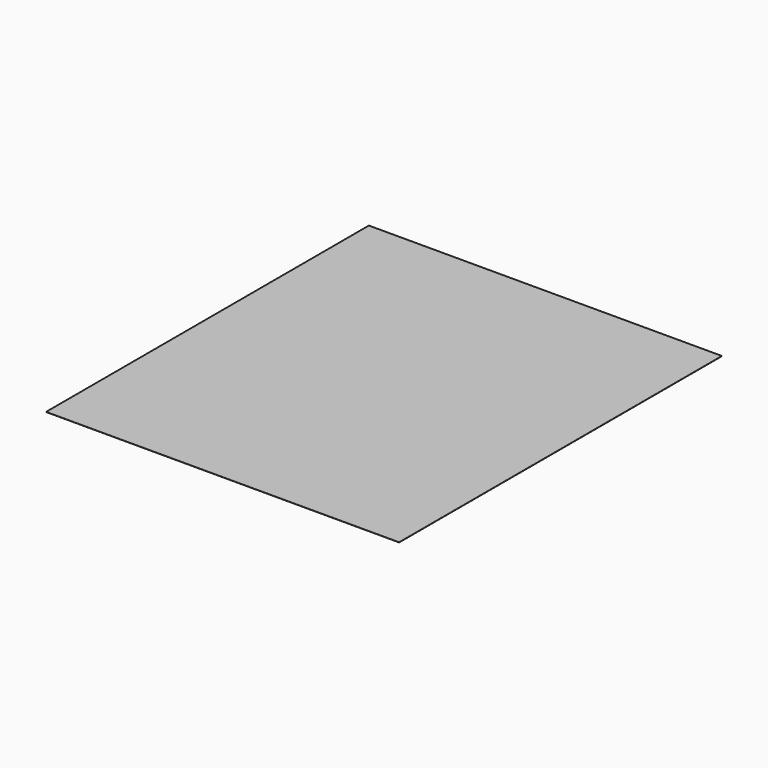
from build123d import *

# Parameters (mm, degrees)
F0_W     = 1100
F0_H     = 800
F1_DEPTH = 1


with BuildPart() as f1:
    # F0 (on Top) → F1 (new body)
    with BuildSketch(Plane.XY):
        Polygon((-750, -1134.7698926926), (-750, -1200), (1350, -1200), (1350, 1200), (-750, 1200), (-750, 1057.4456095695), (-750, 907.4456095695), (-750, 759.5543324947), (-750, 609.5543324947), (-750, 466.9999420643), (-750, 316.9999420643), (-750, 188.3945055429), (-750, 38.3945055429), (-750, -104.1598848875), (-750, -254.1598848875), (-750, -402.0511619623), (-750, -552.0511619623), (-750, -694.6055523928), (-750, -844.6055523928), (-750, -992.2155022621), align=None)
        Rectangle(F0_W, F0_H, mode=Mode.SUBTRACT)
        Rectangle(F0_W, F0_H)
    extrude(amount=F1_DEPTH)


solid = f1.part
